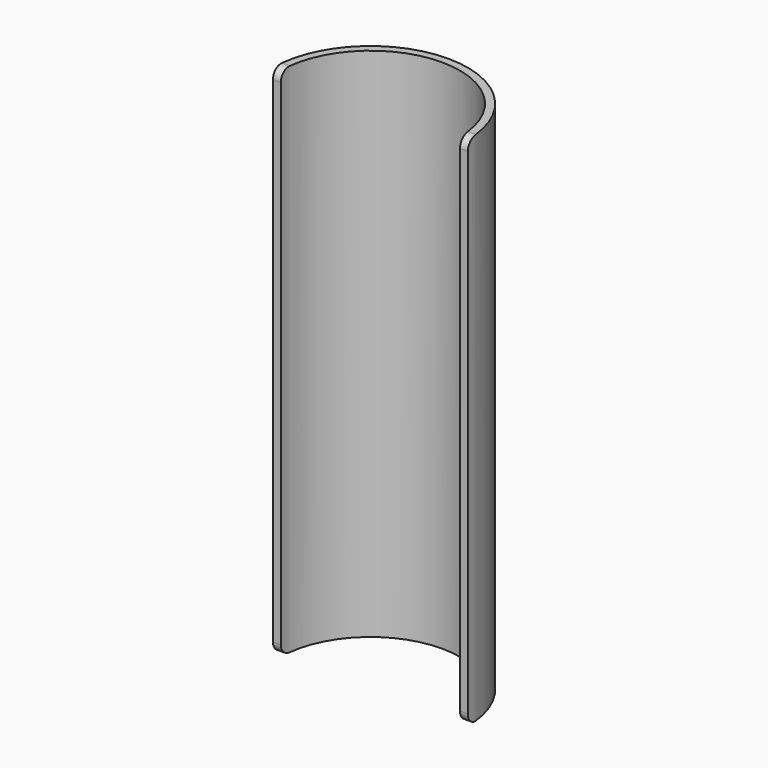
from build123d import *

# Parameters (mm, degrees)
PAD_DEPTH = 98
FILLET_R  = 2


with BuildPart() as part:
    # Sketch → Pad (new body)
    with BuildSketch(Plane.XY):
        with BuildLine():
            ThreePointArc((17, 0), (0, 17), (-17, 0))
            Line((-17, 0), (-18.5, 0))
            ThreePointArc((18.5, 0), (0, 18.5), (-18.5, 0))
            Line((17, 0), (18.5, 0))
        make_face()
    extrude(amount=PAD_DEPTH)

    # Fillet
    fillet_edges = [part.edges().sort_by_distance(p)[0] for p in [
        (17.75, 0, 0),
        (-17.75, 0, 0),
        (-17.75, 0, 98),
        (17.75, 0, 98),
    ]]
    fillet(fillet_edges, radius=FILLET_R)


solid = part.part
